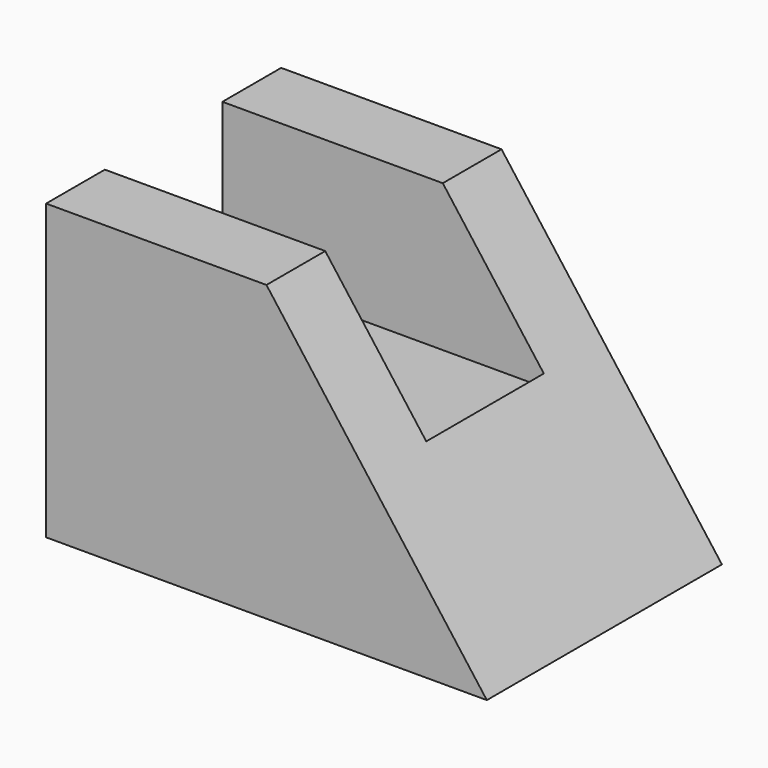
from build123d import *

# Parameters (mm, degrees)
F0_W     = 19.05
F0_H     = 6.35
F1_DEPTH = 25.4
F2_DEPTH = 12.7
F4_DEPTH = 25.4


with BuildPart() as f1:
    # F0 (on Top) → F1 (new body)
    with BuildSketch(Plane.XY):
        Polygon((19.05, 25.4), (0, 25.4), (0, 19.05), (8.733842, 19.05), (8.733842, 6.35), (0, 6.35), (0, 0), (19.05, 0), align=None)
        with Locations((-9.525, 3.175)):
            Rectangle(F0_W, F0_H)
        with Locations((-9.525, 22.225)):
            Rectangle(F0_W, F0_H)
    extrude(amount=F1_DEPTH)

    # F0 (on Top) → F2 (join)
    with BuildSketch(Plane.XY):
        Polygon((0, 19.05), (-19.05, 19.05), (-19.05, 6.35), (0, 6.35), (8.733842, 6.35), (8.733842, 19.05), align=None)
    extrude(amount=F2_DEPTH)

    # F3 (on face) → F4 (cut)
    with BuildSketch(Plane.XZ):
        Polygon((19.05, 25.4), (0, 25.4), (19.05, 0), align=None)
    extrude(amount=-F4_DEPTH, mode=Mode.SUBTRACT)


solid = f1.part
